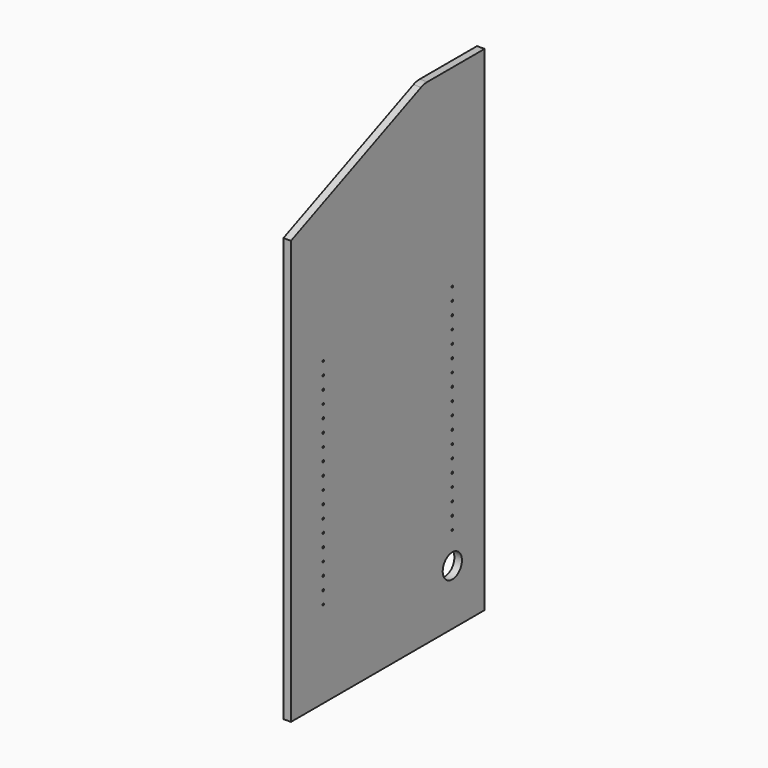
from build123d import *

# Parameters (mm, degrees)
F0_R     = 30.226
F1_DEPTH = 19.05
F3_D     = 5.0038
F3_DEPTH = 14.224
F3_TIP   = 1.5032931827


with BuildPart() as f1:
    # F0 (on Right) → F1 (new body)
    with BuildSketch(Plane.YZ):
        with BuildLine():
            Line((304.8, -482.6), (304.8, 622.3))
            Line((304.8, 622.3), (124.6301678728, 622.3))
            ThreePointArc((124.6301678728, 622.3), (114.5071784324, 621.2811719909), (104.7902356525, 618.2655545193))
            Line((104.7902356525, 618.2655545193), (-304.8, 444.5))
            Line((-304.8, 444.5), (-304.8, 396.875))
            Line((-304.8, 396.875), (-304.8, -622.3))
            Line((-304.8, -622.3), (304.8, -622.3))
            Line((304.8, -622.3), (304.8, -482.6))
        make_face()
        with Locations((203.2, -482.6)):
            Circle(F0_R, mode=Mode.SUBTRACT)
    extrude(amount=F1_DEPTH)

    # F3
    with Locations(Plane.YZ.offset(19.05)):
        with Locations((-203.2, 136.525), (-203.2, 104.775), (-203.2, 73.025), (-203.2, 41.275), (-203.2, 9.525), (-203.2, -22.225), (-203.2, -53.975), (-203.2, -85.725), (-203.2, -117.475), (-203.2, -149.225), (-203.2, -180.975), (-203.2, -212.725), (-203.2, -244.475), (-203.2, -276.225), (-203.2, -307.975), (-203.2, -339.725), (-203.2, -371.475), (-203.2, -403.225), (203.2, -403.225), (203.2, -371.475), (203.2, -339.725), (203.2, -307.975), (203.2, -276.225), (203.2, -244.475), (203.2, -212.725), (203.2, -180.975), (203.2, -149.225), (203.2, -117.475), (203.2, -85.725), (203.2, -53.975), (203.2, -22.225), (203.2, 9.525), (203.2, 41.275), (203.2, 73.025), (203.2, 104.775), (203.2, 136.525)):
            Hole(F3_D / 2, depth=F3_DEPTH)
            with Locations((0, 0, -(F3_DEPTH + F3_TIP / 2))):  # 118° drill point
                Cone(0, F3_D / 2, F3_TIP, mode=Mode.SUBTRACT)


solid = f1.part
